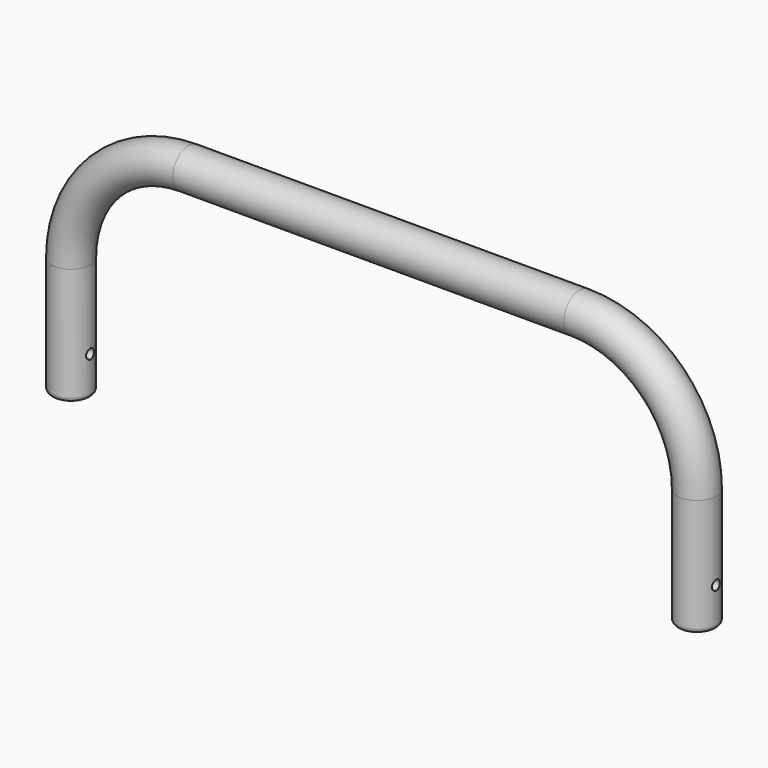
from build123d import *

# Parameters (mm, degrees)
F4_R      = 2.54
F8_DEPTH  = 450.088
F10_DEPTH = 6.35


with BuildPart() as f2:
    # F2: sweep along a path in F0
    with BuildLine(Plane.XZ) as f2_path:
        Line((203.2, 0), (203.2, 76.2))
        ThreePointArc((203.2, 76.2), (180.8815367264, 130.0815367264), (127, 152.4))
        Line((127, 152.4), (0, 152.4))
    # F1 (on Top) → F2 (sweep)
    with BuildSketch(Plane.XY):
        with BuildLine():
            ThreePointArc((190.5, 0), (203.2, -12.7), (215.9, 0))
            ThreePointArc((215.9, 0), (203.2, 12.7), (190.5, 0))
        make_face()
    sweep(path=f2_path.line)

    # F3: F2 across plane


with BuildPart() as f2_1:
    add(f2.part)
    add(f2.part.mirror(Plane.YZ))

    # F4
    f4_edges = [f2_1.edges().sort_by_distance(p)[0] for p in [
        (190.5, 0, 0),
        (-190.5, 0, 0),
    ]]
    fillet(f4_edges, radius=F4_R)

    # F7 (on offset) → F8 (cut)
    with BuildSketch(Plane.YZ.offset(215.9)):
        with BuildLine():
            ThreePointArc((0, 22.225), (2.2450640303, 23.1549359697), (3.175, 25.4))
            ThreePointArc((3.175, 25.4), (-2.2450640303, 27.6450640303), (0, 22.225))
        make_face()
    extrude(amount=-F8_DEPTH, mode=Mode.SUBTRACT)

    # F9 (on offset) → F10 (cut)
    with BuildSketch(Plane.YZ.offset(-215.9)):
        with BuildLine():
            ThreePointArc((0, 22.225), (2.2450640303, 23.1549359697), (3.175, 25.4))
            ThreePointArc((3.175, 25.4), (-2.2450640303, 27.6450640303), (0, 22.225))
        make_face()
    extrude(amount=F10_DEPTH, mode=Mode.SUBTRACT)


solid = f2_1.part
